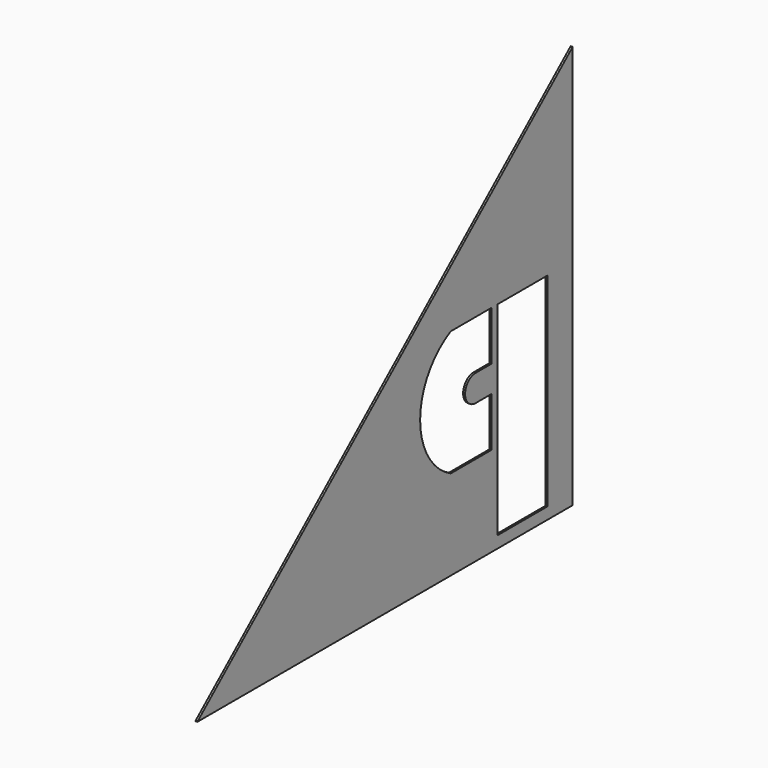
from build123d import *

# Parameters (mm, degrees)
F1_DEPTH = 3.175
F2_W     = 101.6
F2_H     = 330.2
F3_DEPTH = 25.4


with BuildPart() as f1:
    # F0 (on Right) → F1 (new body)
    with BuildSketch(Plane.YZ):
        Polygon((-762, 0), (0, 0), (0, 655.32), align=None)
    extrude(amount=F1_DEPTH)

    # F2 (on face) → F3 (cut)
    with BuildSketch(Plane(origin=(0, 0, 0), x_dir=(0, -1, 0), z_dir=(-1, 0, 0))):
        with BuildLine():
            Line((165.1, 146.05), (247.65, 146.05))
            ThreePointArc((247.65, 146.05), (309.614775, 247.65), (247.65, 349.25))
            Line((247.65, 349.25), (165.1, 349.25))
            Line((165.1, 349.25), (165.1, 269.24))
            Line((165.1, 269.24), (196.85, 269.24))
            ThreePointArc((196.85, 269.24), (218.44, 247.65), (196.85, 226.06))
            Line((196.85, 226.06), (165.1, 226.06))
            Line((165.1, 226.06), (165.1, 146.05))
        make_face()
        with Locations((101.6, 184.15)):
            Rectangle(F2_W, F2_H)
    extrude(amount=-F3_DEPTH, mode=Mode.SUBTRACT)


solid = f1.part
